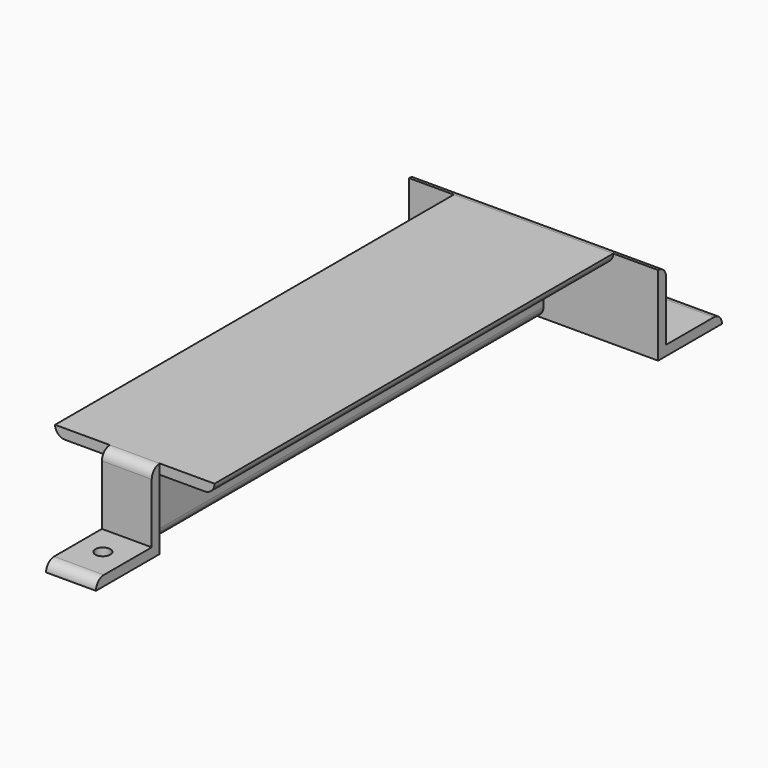
from build123d import *

# Parameters (mm, degrees)
PAD_DEPTH      = 200
PAD001_DEPTH   = 10
PAD002_DEPTH   = 50
SKETCH003_R    = 3
HOLE_DEPTH     = 25
HOLE_TIPS_R    = 3
SKETCH004_R    = 3
HOLE001_DEPTH  = 25
HOLE001_TIPS_R = 3


with BuildPart() as part:
    # Sketch → Pad (new body)
    with BuildSketch(Plane.XZ):
        with BuildLine():
            Line((-32, 32), (32, 32))
            ThreePointArc((28, 28), (30.828427, 29.171573), (32, 32))
            Line((4, 28), (28, 28))
            Line((4, 28), (4, 4))
            ThreePointArc((-4, 4), (0, 0), (4, 4))
            Line((-4, 4), (-4, 28))
            Line((-28, 28), (-4, 28))
            ThreePointArc((-32, 32), (-30.828427, 29.171573), (-28, 28))
        make_face()
    extrude(amount=PAD_DEPTH)

    # Sketch001 (on DatumPlane) → Pad001 (join, symmetric)
    with BuildSketch(Plane(origin=(0, 0, 0), x_dir=(0, -1, 0), z_dir=(1, 0, 0))):
        with BuildLine():
            Line((200, 0), (232, 0))
            ThreePointArc((228, -4), (230.828427, -2.828427), (232, 0))
            Line((228, -4), (204, -4))
            Line((204, -4), (204, -28))
            ThreePointArc((200, -32), (202.828427, -30.828427), (204, -28))
            Line((200, 0), (200, -32))
        make_face()
    extrude(amount=PAD001_DEPTH, both=True)

    # Sketch002 (on DatumPlane) → Pad002 (join, symmetric)
    with BuildSketch(Plane(origin=(0, 0, 0), x_dir=(0, -1, 0), z_dir=(1, 0, 0))):
        with BuildLine():
            Line((0, 0), (-32, 0))
            ThreePointArc((-32, 0), (-30.828427, -2.828427), (-28, -4))
            Line((-28, -4), (-4, -4))
            Line((-4, -4), (-4, -28))
            ThreePointArc((-4, -28), (-2.828427, -30.828427), (0, -32))
            Line((0, 0), (0, -32))
        make_face()
    extrude(amount=PAD002_DEPTH, both=True)

    # Sketch003 (on Face22 of Pad002) → Hole (cut)
    with BuildSketch(Plane(origin=(0, 0, 0), x_dir=(1, 0, 0), z_dir=(0, 0, -1))):
        with Locations((0, 216)):
            Circle(SKETCH003_R)
    extrude(amount=-HOLE_DEPTH, mode=Mode.SUBTRACT)

    # Hole tips → Hole tip 1 section 0
    with BuildSketch(Plane(origin=(0, 0, 25), x_dir=(1, 0, 0), z_dir=(0, 0, -1)), mode=Mode.PRIVATE) as hole_tip_1_s0:
        with Locations((0, 216)):
            Circle(HOLE_TIPS_R)
    loft([hole_tip_1_s0.sketch, Vertex(0, -216, 26.802582)], mode=Mode.SUBTRACT)

    # Sketch004 (on Face14 of Hole) → Hole001 (cut)
    with BuildSketch(Plane(origin=(0, 0, 0), x_dir=(1, 0, 0), z_dir=(0, 0, -1))):
        with Locations((34, -16)):
            Circle(SKETCH004_R)
        with Locations((-34, -16)):
            Circle(SKETCH004_R)
    extrude(amount=-HOLE001_DEPTH, mode=Mode.SUBTRACT)

    # Hole001 tips → Hole001 tip 1 section 0
    with BuildSketch(Plane(origin=(0, 0, 25), x_dir=(1, 0, 0), z_dir=(0, 0, -1)), mode=Mode.PRIVATE) as hole001_tip_1_s0:
        with Locations((34, -16)):
            Circle(HOLE001_TIPS_R)
    loft([hole001_tip_1_s0.sketch, Vertex(34, 16, 26.802582)], mode=Mode.SUBTRACT)

    # Hole001 tips → Hole001 tip 2 section 0
    with BuildSketch(Plane(origin=(0, 0, 25), x_dir=(1, 0, 0), z_dir=(0, 0, -1)), mode=Mode.PRIVATE) as hole001_tip_2_s0:
        with Locations((-34, -16)):
            Circle(HOLE001_TIPS_R)
    loft([hole001_tip_2_s0.sketch, Vertex(-34, 16, 26.802582)], mode=Mode.SUBTRACT)


solid = part.part
